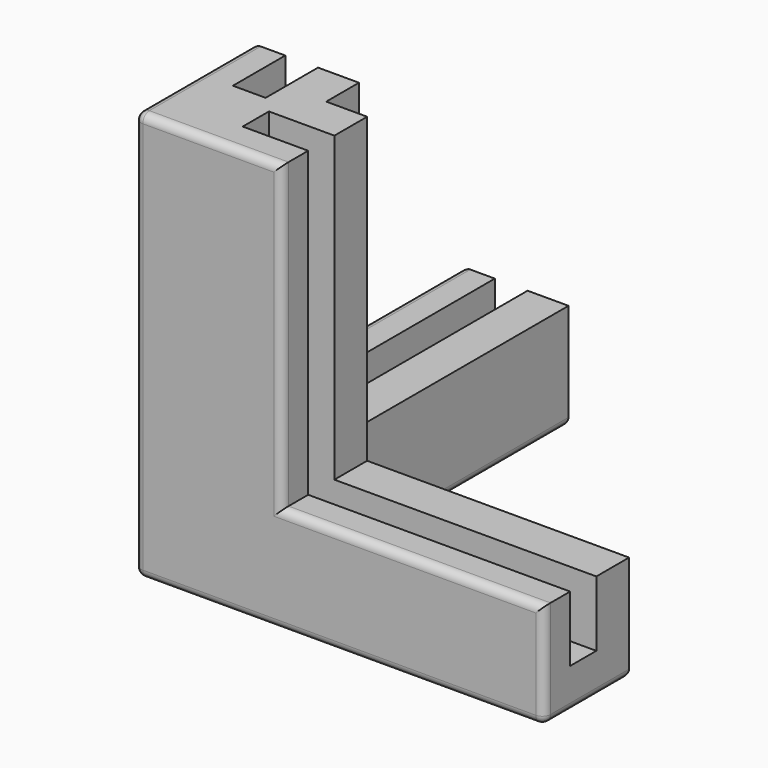
from build123d import *

# Parameters (mm, degrees)
PAD_DEPTH     = 13
PAD001_DEPTH  = 50
SKETCH002_W   = 70.608528
SKETCH002_H   = 4
SKETCH002_W_2 = 4
SKETCH002_H_2 = 60
POCKET_DEPTH  = 45
FILLET_R      = 1


with BuildPart() as part:
    # Sketch → Pad (new body)
    with BuildSketch(Plane.XY):
        Polygon((0, 0), (50, 0), (50, 13), (13, 13), (13, 50), (0, 50), align=None)
    extrude(amount=PAD_DEPTH)

    # Sketch001 → Pad001 (join)
    with BuildSketch(Plane.XY):
        Polygon((0, 0), (18, 0), (18, 13), (13, 13), (13, 18), (0, 18), align=None)
    extrude(amount=PAD001_DEPTH)

    # Sketch002 (on DatumPlane) → Pocket (cut)
    with BuildSketch(Plane.XY.offset(50)):
        with Locations((45.304264, 6)):
            Rectangle(SKETCH002_W, SKETCH002_H)
        with Locations((6, 40)):
            Rectangle(SKETCH002_W_2, SKETCH002_H_2)
    extrude(amount=-POCKET_DEPTH, mode=Mode.SUBTRACT)

    # Fillet
    fillet_edges = [part.edges().sort_by_distance(p)[0] for p in [
        (0, 25, 0),
        (6.5, 50, 0),
        (13, 31.5, 0),
        (31.5, 13, 0),
        (50, 6.5, 0),
        (25, 0, 0),
        (50, 0, 6.5),
        (34, 0, 13),
        (18, 0, 31.5),
        (9, 0, 50),
        (0, 0, 25),
        (0, 9, 50),
        (0, 18, 31.5),
        (0, 34, 13),
        (0, 50, 6.5),
    ]]
    fillet(fillet_edges, radius=FILLET_R)


solid = part.part
